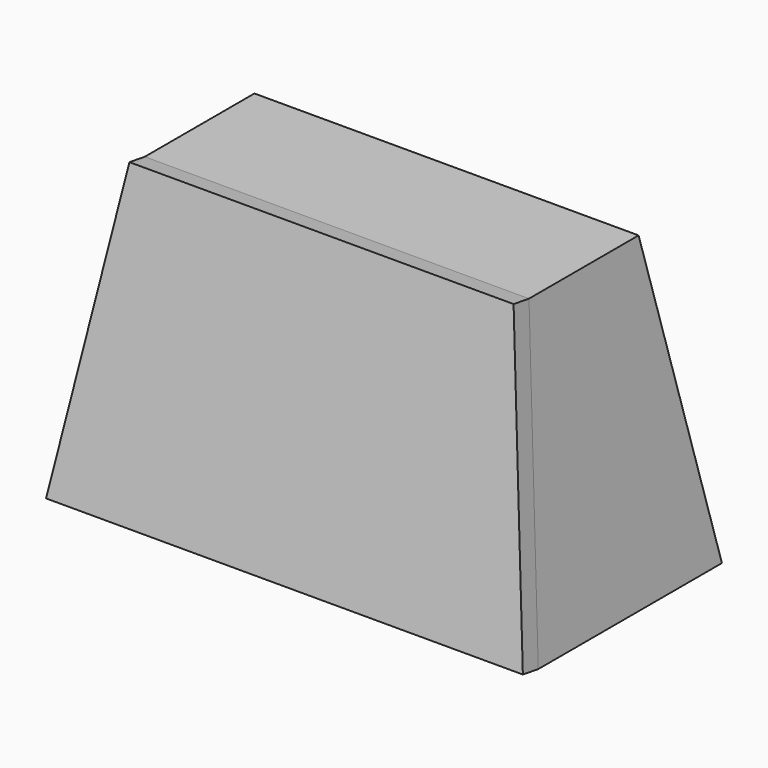
from build123d import *

# Parameters (mm, degrees)
F0_W     = 97.8765487671
F0_H     = 47.1324250102
F1_DEPTH = 60
F1_TAPER = 9
F2_DEPTH = 4


with BuildPart() as f1:
    # F0 (on Top) → F1 (new body)
    with BuildSketch(Plane.XY):
        with Locations((-9.3516856432, 1.5102289617)):
            Rectangle(F0_W, F0_H)
    extrude(amount=F1_DEPTH, taper=F1_TAPER)


with BuildPart() as f2:
    # F2 (new): a face of the model
    f2_faces = [f1.part.faces().sort_by_distance(p)[0] for p in [
        (-9.3516856432, -17.4747658872, 28.924669916),
    ]]
    extrude(f2_faces, amount=F2_DEPTH)


solid = Compound([f1.part, f2.part])
